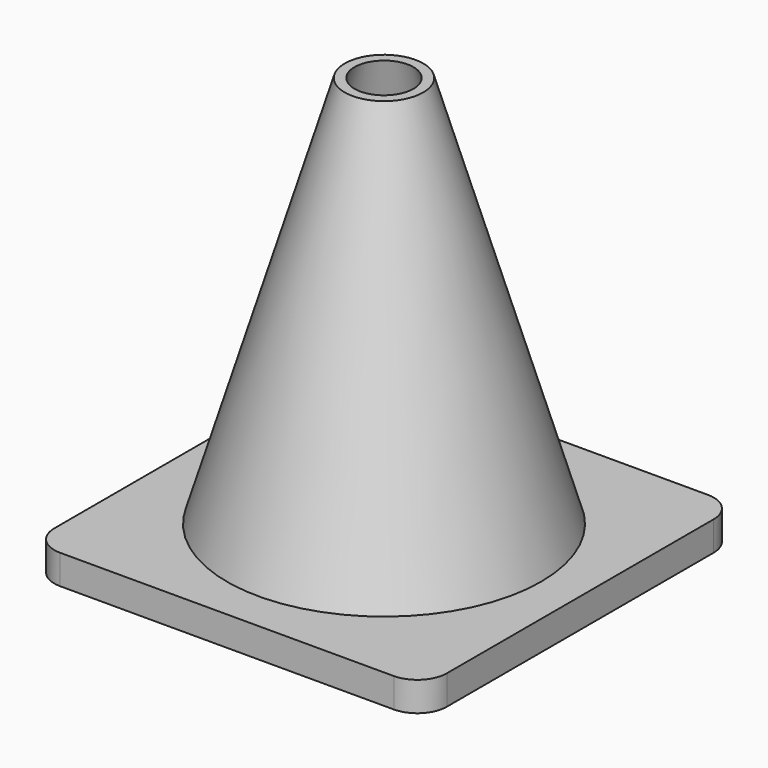
from build123d import *

# Parameters (mm, degrees)
BOX_W     = 40
BOX_H     = 40
BOX_DEPTH = 3
FILLET_R  = 3


with BuildPart() as con001:
    # Cone001 → Cone001 (revolve)
    with BuildSketch(Plane(origin=(0, 0, -4), x_dir=(1, 0, 0), z_dir=(0, -1, 0))):
        Polygon((0, 0), (15, 0), (3, 44), (0, 44), align=None)
    revolve(axis=Axis((0, 0, -4), (0, 0, 1)))


with BuildPart() as con:
    # Cone → Cone (revolve)
    with BuildSketch(Plane.XZ):
        Polygon((0, 0), (16, 0), (4, 40), (0, 40), align=None)
    revolve(axis=Axis((0, 0, 0), (0, 0, 1)))


with BuildPart() as cut:
    # Box → Box (new body)
    with BuildSketch(Plane.XY):
        with Locations((20, 20)):
            Rectangle(BOX_W, BOX_H)
    extrude(amount=BOX_DEPTH)

    # Fillet
    fillet_edges = [cut.edges().sort_by_distance(p)[0] for p in [
        (0, 0, 1.5),
        (0, 40, 1.5),
        (40, 0, 1.5),
        (40, 40, 1.5),
    ]]
    fillet(fillet_edges, radius=FILLET_R)


with BuildPart() as cut_1:
    # Fillet placement: moved
    add(cut.part.moved(Location((-20, -20, -3))))

    # Fusion: union Con
    add(con.part)

    # Cut: cut Con001
    add(con001.part, mode=Mode.SUBTRACT)


solid = cut_1.part
